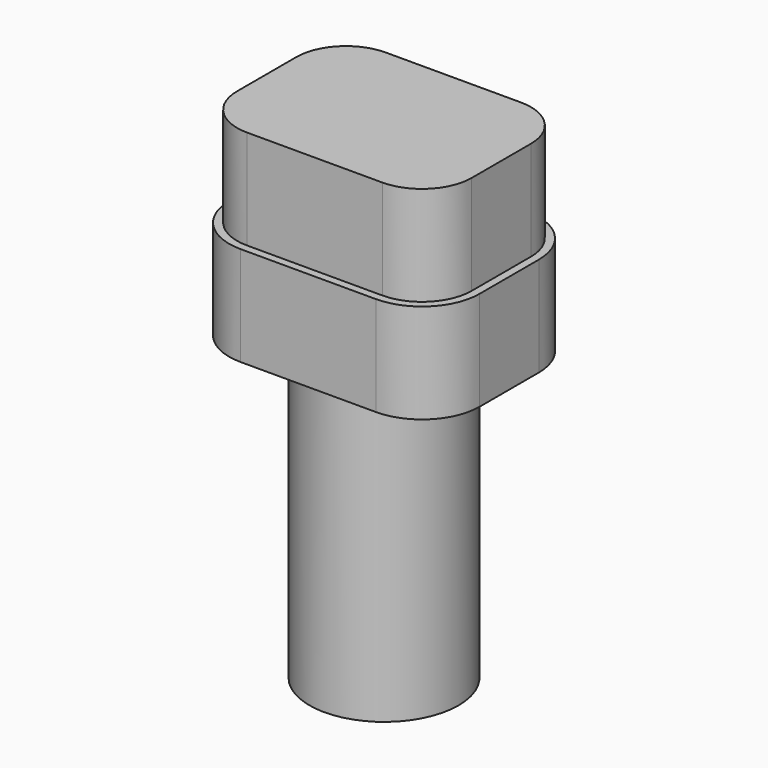
from build123d import *

# Parameters (mm, degrees)
F0_R     = 4.7625
F1_DEPTH = 18.8087
F2_R     = 4.7625
F3_DEPTH = 12.7
F4_DEPTH = 6.35


with BuildPart() as f1:
    # F0 (on Top) → F1 (new body)
    with BuildSketch(Plane.XY):
        Circle(F0_R)
    extrude(amount=F1_DEPTH)

    # F2 (on face) → F3 (join)
    with BuildSketch(Plane.XY.offset(18.8087)):
        with BuildLine():
            ThreePointArc((7.493, 2.3622), (6.563064, 4.607264), (4.318, 5.5372))
            Line((4.318, 5.5372), (-4.318, 5.5372))
            ThreePointArc((-4.318, 5.5372), (-6.563064, 4.607264), (-7.493, 2.3622))
            Line((-7.493, 2.3622), (-7.493, -2.3622))
            ThreePointArc((-7.493, -2.3622), (-6.563064, -4.607264), (-4.318, -5.5372))
            Line((-4.318, -5.5372), (4.318, -5.5372))
            ThreePointArc((4.318, -5.5372), (6.563064, -4.607264), (7.493, -2.3622))
            Line((7.493, -2.3622), (7.493, 2.3622))
        make_face()
        Circle(F2_R, mode=Mode.SUBTRACT)
        Circle(F2_R)
    extrude(amount=F3_DEPTH)

    # F2 (on face) → F4 (join)
    with BuildSketch(Plane.XY.offset(18.8087)):
        with BuildLine():
            Line((8.001, -2.3622), (8.001, 2.3622))
            ThreePointArc((8.001, 2.3622), (6.922274, 4.966474), (4.318, 6.0452))
            Line((4.318, 6.0452), (-4.318, 6.0452))
            ThreePointArc((-4.318, 6.0452), (-6.922274, 4.966474), (-8.001, 2.3622))
            Line((-8.001, 2.3622), (-8.001, -2.3622))
            ThreePointArc((-8.001, -2.3622), (-6.922274, -4.966474), (-4.318, -6.0452))
            Line((-4.318, -6.0452), (4.318, -6.0452))
            ThreePointArc((4.318, -6.0452), (6.922274, -4.966474), (8.001, -2.3622))
        make_face()
        with BuildLine():
            Line((-4.318, 5.5372), (4.318, 5.5372))
            ThreePointArc((4.318, 5.5372), (6.563064, 4.607264), (7.493, 2.3622))
            Line((7.493, 2.3622), (7.493, -2.3622))
            ThreePointArc((7.493, -2.3622), (6.563064, -4.607264), (4.318, -5.5372))
            Line((4.318, -5.5372), (-4.318, -5.5372))
            ThreePointArc((-4.318, -5.5372), (-6.563064, -4.607264), (-7.493, -2.3622))
            Line((-7.493, -2.3622), (-7.493, 2.3622))
            ThreePointArc((-7.493, 2.3622), (-6.563064, 4.607264), (-4.318, 5.5372))
        make_face(mode=Mode.SUBTRACT)
    extrude(amount=F4_DEPTH)


solid = f1.part
